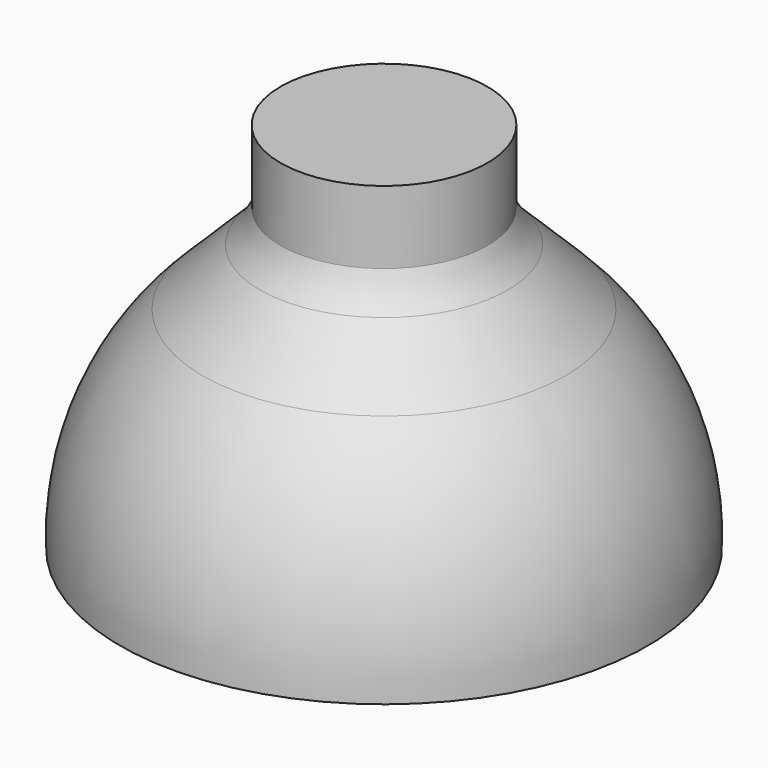
from build123d import *


with BuildPart() as f1:
    # F0 (on Front) → F1 (revolve)
    with BuildSketch(Plane.XZ):
        with BuildLine():
            Line((-18.125009, 39.140516), (-26.504006, 30.815216))
            ThreePointArc((-26.504006, 30.815216), (-35.793529, 16.679582), (-38.604748, 0))
            Line((-38.604748, 0), (-35.302743, 0))
            ThreePointArc((-35.302743, 0), (-32.491525, 16.679582), (-23.202002, 30.815216))
            Line((-23.202002, 30.815216), (-14.823005, 39.140516))
            ThreePointArc((-14.823005, 39.140516), (-13.056811, 41.342796), (-11.827306, 43.884017))
            Line((-11.827306, 43.884017), (-11.827306, 52.142784))
            Line((-11.827306, 52.142784), (0, 52.142784))
            Line((0, 52.142784), (0, 54.532669))
            Line((0, 54.532669), (-11.827306, 54.532669))
            Line((-11.827306, 54.532669), (-15.12931, 54.532669))
            Line((-15.12931, 54.532669), (-15.12931, 43.884017))
            ThreePointArc((-15.12931, 43.884017), (-16.358815, 41.342796), (-18.125009, 39.140516))
        make_face()
        with BuildLine():
            Line((0, 9.614908), (0, 46.964001))
            Line((0, 46.964001), (-5.913653, 46.964001))
            Line((-5.913653, 46.964001), (-5.913653, 36.448237))
            ThreePointArc((-5.913653, 36.448237), (-7.397998, 31.385981), (-11.38097, 27.926842))
            ThreePointArc((-11.38097, 27.926842), (-11.997754, 14.850872), (0, 9.614908))
        make_face()
    revolve(axis=Axis((0, 0, 28.289455), (0, 0, -1)))


solid = f1.part
